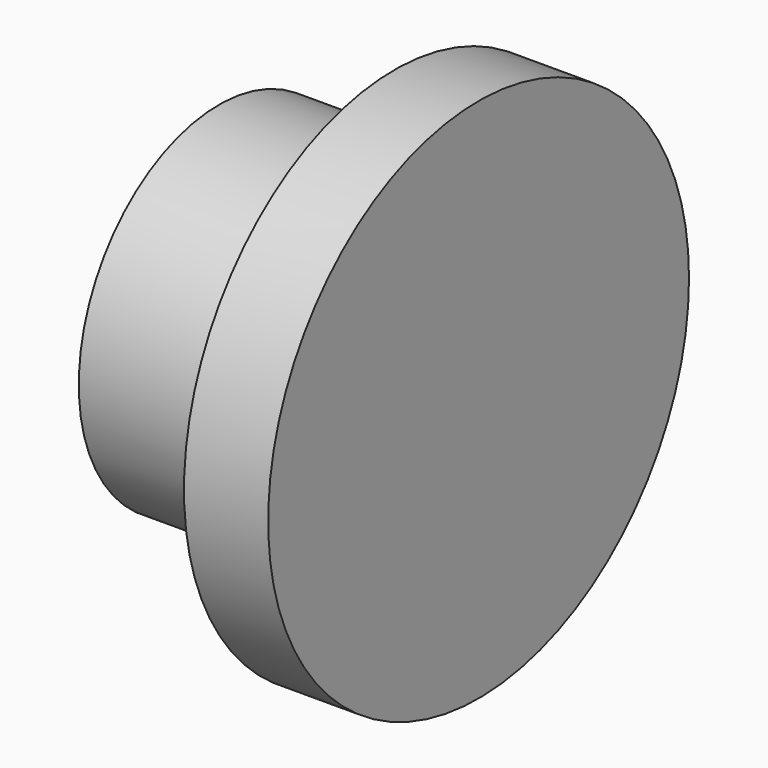
from build123d import *

# Parameters (mm, degrees)
F0_R     = 38.1
F0_R_2   = 25.4
F1_DEPTH = 12.192
F2_DEPTH = 25.4


with BuildPart() as f1:
    # F0 (on Right) → F1 (new body)
    with BuildSketch(Plane.YZ):
        Circle(F0_R)
        Circle(F0_R_2, mode=Mode.SUBTRACT)
        Circle(F0_R_2)
    extrude(amount=F1_DEPTH)

    # F0 (on Right) → F2 (join)
    with BuildSketch(Plane.YZ):
        Circle(F0_R_2)
    extrude(amount=-F2_DEPTH)


solid = f1.part
